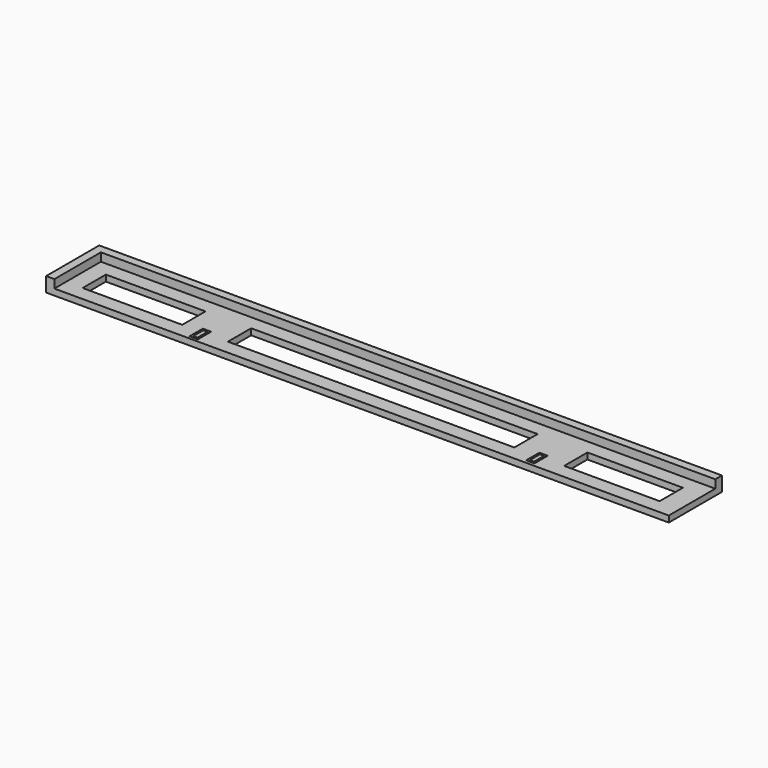
from build123d import *

# Parameters (mm, degrees)
BOX006_W     = 23
BOX006_H     = 7
BOX006_DEPTH = 10
BOX005_W     = 69
BOX005_H     = 7
BOX005_DEPTH = 10
BOX004_W     = 24
BOX004_H     = 7
BOX004_DEPTH = 10
BOX003_W     = 2
BOX003_H     = 4
BOX003_DEPTH = 10
BOX002_W     = 2
BOX002_H     = 4
BOX002_DEPTH = 10
BOX001_W     = 148
BOX001_H     = 14
BOX001_DEPTH = 2
BOX_W        = 150
BOX_H        = 16
BOX_DEPTH    = 3
BOX011_W     = 69
BOX011_H     = 7
BOX011_DEPTH = 10
BOX012_W     = 23
BOX012_H     = 7
BOX012_DEPTH = 10
BOX010_W     = 24
BOX010_H     = 7
BOX010_DEPTH = 10
BOX008_W     = 1
BOX008_H     = 3
BOX008_DEPTH = 1
BOX007_W     = 1
BOX007_H     = 3
BOX007_DEPTH = 1
BOX009_W     = 150
BOX009_H     = 16
BOX009_DEPTH = 0.5


with BuildPart() as cube006:
    # Box006 → Box006 (new body)
    with BuildSketch(Plane(origin=(122, 3.5, -3), x_dir=(1, 0, 0), z_dir=(0, 0, 1))):
        with Locations((11.5, 3.5)):
            Rectangle(BOX006_W, BOX006_H)
    extrude(amount=BOX006_DEPTH)


with BuildPart() as cube005:
    # Box005 → Box005 (new body)
    with BuildSketch(Plane(origin=(41, 3.5, -3), x_dir=(1, 0, 0), z_dir=(0, 0, 1))):
        with Locations((34.5, 3.5)):
            Rectangle(BOX005_W, BOX005_H)
    extrude(amount=BOX005_DEPTH)


with BuildPart() as cube004:
    # Box004 → Box004 (new body)
    with BuildSketch(Plane(origin=(6, 3.5, -3), x_dir=(1, 0, 0), z_dir=(0, 0, 1))):
        with Locations((12, 3.5)):
            Rectangle(BOX004_W, BOX004_H)
    extrude(amount=BOX004_DEPTH)


with BuildPart() as cube003:
    # Box003 → Box003 (new body)
    with BuildSketch(Plane(origin=(115, 0.8, -5), x_dir=(1, 0, 0), z_dir=(0, 0, 1))):
        with Locations((1, 2)):
            Rectangle(BOX003_W, BOX003_H)
    extrude(amount=BOX003_DEPTH)


with BuildPart() as cube002:
    # Box002 → Box002 (new body)
    with BuildSketch(Plane(origin=(34, 0.7, -5), x_dir=(1, 0, 0), z_dir=(0, 0, 1))):
        with Locations((1, 2)):
            Rectangle(BOX002_W, BOX002_H)
    extrude(amount=BOX002_DEPTH)


with BuildPart() as cube001:
    # Box001 → Box001 (new body)
    with BuildSketch(Plane(origin=(2, 0, 1), x_dir=(1, 0, 0), z_dir=(0, 0, 1))):
        with Locations((74, 7)):
            Rectangle(BOX001_W, BOX001_H)
    extrude(amount=BOX001_DEPTH)


with BuildPart() as cut005:
    # Box → Box (new body)
    with BuildSketch(Plane.XY):
        with Locations((75, 8)):
            Rectangle(BOX_W, BOX_H)
    extrude(amount=BOX_DEPTH)

    # Cut: cut Cube001
    add(cube001.part, mode=Mode.SUBTRACT)

    # Cut001: cut Cube002
    add(cube002.part, mode=Mode.SUBTRACT)

    # Cut002: cut Cube003
    add(cube003.part, mode=Mode.SUBTRACT)

    # Cut003: cut Cube004
    add(cube004.part, mode=Mode.SUBTRACT)

    # Cut004: cut Cube005
    add(cube005.part, mode=Mode.SUBTRACT)

    # Cut005: cut Cube006
    add(cube006.part, mode=Mode.SUBTRACT)


with BuildPart() as cube011:
    # Box011 → Box011 (new body)
    with BuildSketch(Plane(origin=(41, 3.5, -3), x_dir=(1, 0, 0), z_dir=(0, 0, 1))):
        with Locations((34.5, 3.5)):
            Rectangle(BOX011_W, BOX011_H)
    extrude(amount=BOX011_DEPTH)


with BuildPart() as cube012:
    # Box012 → Box012 (new body)
    with BuildSketch(Plane(origin=(122, 3.5, -3), x_dir=(1, 0, 0), z_dir=(0, 0, 1))):
        with Locations((11.5, 3.5)):
            Rectangle(BOX012_W, BOX012_H)
    extrude(amount=BOX012_DEPTH)


with BuildPart() as cube010:
    # Box010 → Box010 (new body)
    with BuildSketch(Plane(origin=(6, 3.5, -3), x_dir=(1, 0, 0), z_dir=(0, 0, 1))):
        with Locations((12, 3.5)):
            Rectangle(BOX010_W, BOX010_H)
    extrude(amount=BOX010_DEPTH)


with BuildPart() as cube008:
    # Box008 → Box008 (new body)
    with BuildSketch(Plane(origin=(115.5, 1.3, 0), x_dir=(1, 0, 0), z_dir=(0, 0, 1))):
        with Locations((0.5, 1.5)):
            Rectangle(BOX008_W, BOX008_H)
    extrude(amount=BOX008_DEPTH)


with BuildPart() as cube007:
    # Box007 → Box007 (new body)
    with BuildSketch(Plane(origin=(34.5, 1.2, 0), x_dir=(1, 0, 0), z_dir=(0, 0, 1))):
        with Locations((0.5, 1.5)):
            Rectangle(BOX007_W, BOX007_H)
    extrude(amount=BOX007_DEPTH)


with BuildPart() as fusion001:
    # Box009 → Box009 (new body)
    with BuildSketch(Plane.XY.offset(-0.5)):
        with Locations((75, 8)):
            Rectangle(BOX009_W, BOX009_H)
    extrude(amount=BOX009_DEPTH)

    # Fusion: union Cube008, Cube007
    add(cube008.part)
    add(cube007.part)

    # Cut006: cut Cube010
    add(cube010.part, mode=Mode.SUBTRACT)

    # Cut007: cut Cube012
    add(cube012.part, mode=Mode.SUBTRACT)

    # Cut008: cut Cube011
    add(cube011.part, mode=Mode.SUBTRACT)

    # Fusion001: union Cut005
    add(cut005.part)


solid = fusion001.part
